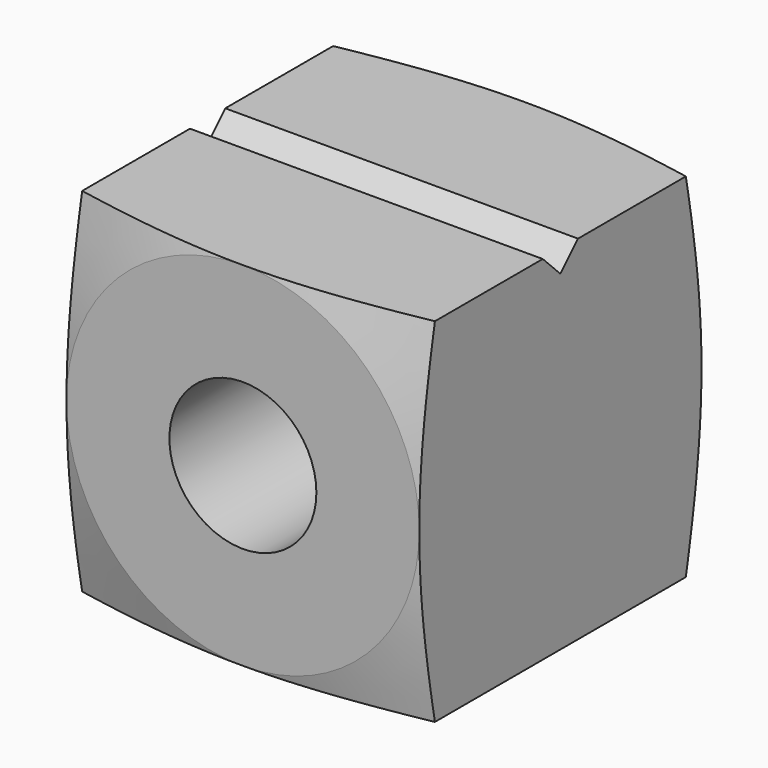
from build123d import *

# Parameters (mm, degrees)
F0_R     = 3.96875
F1_DEPTH = 19.05
F3_DEPTH = 127


with BuildPart() as f1:
    # F0 (on Front) → F1 (new body)
    with BuildSketch(Plane.XZ):
        with BuildLine():
            ThreePointArc((0, -9.525), (6.7351920908, -6.7351920908), (9.525, 0))
            ThreePointArc((9.525, 0), (6.7351920908, 6.7351920908), (0, 9.525))
            ThreePointArc((0, 9.525), (-6.7351920908, 6.7351920908), (-9.525, 0))
            ThreePointArc((-9.525, 0), (-6.7351920908, -6.7351920908), (0, -9.525))
        make_face()
        Circle(F0_R, mode=Mode.SUBTRACT)
        with BuildLine():
            Line((9.525, -9.525), (9.525, 0))
            ThreePointArc((9.525, 0), (6.7351920908, -6.7351920908), (0, -9.525))
            Line((0, -9.525), (9.525, -9.525))
        make_face()
        with BuildLine():
            ThreePointArc((0, 9.525), (6.7351920908, 6.7351920908), (9.525, 0))
            Line((9.525, 0), (9.525, 9.525))
            Line((9.525, 9.525), (0, 9.525))
        make_face()
        with BuildLine():
            ThreePointArc((-9.525, 0), (-6.7351920908, 6.7351920908), (0, 9.525))
            Line((0, 9.525), (-9.525, 9.525))
            Line((-9.525, 9.525), (-9.525, 0))
        make_face()
        with BuildLine():
            Line((-9.525, -9.525), (0, -9.525))
            ThreePointArc((0, -9.525), (-6.7351920908, -6.7351920908), (-9.525, 0))
            Line((-9.525, 0), (-9.525, -9.525))
        make_face()
    extrude(amount=F1_DEPTH)

    # F2 (on face) → F3 (cut)
    with BuildSketch(Plane.YZ.offset(9.525)):
        Polygon((-14.3871692356, 13.1968459708), (-9.525, 8.3346767351), (-4.6628307644, 13.1968459708), align=None)
    extrude(amount=-F3_DEPTH, mode=Mode.SUBTRACT)

    # F4 (on Right) → F5 (revolve, cut)
    with BuildSketch(Plane.YZ):
        Polygon((-19.05, 15.1654964413), (-19.05, 9.525), (-17.5386335336, 15.1654964413), align=None)
    revolve(axis=Axis((0, -19.05, 0), (0, -1, 0)), mode=Mode.SUBTRACT)

    # F6 (on Right) → F7 (revolve, cut)
    with BuildSketch(Plane.YZ):
        Polygon((-1.3839481467, 14.6899647984), (0, 9.525), (0, 14.6899647984), align=None)
    revolve(axis=Axis((0, 0, 0), (0, -1, 0)), mode=Mode.SUBTRACT)


solid = f1.part
